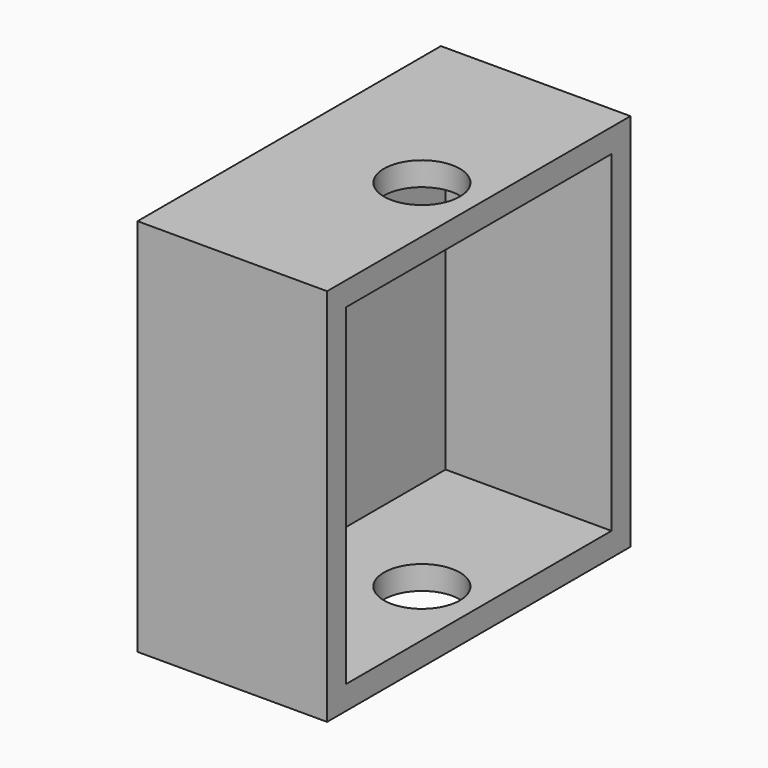
from build123d import *

# Parameters (mm, degrees)
F0_W     = 40
F0_H     = 40
F1_DEPTH = 20
F2_T     = -2.5
F3_R     = 4
F4_DEPTH = 40.001


with BuildPart() as f1:
    # F0 (on Right) → F1 (new body)
    with BuildSketch(Plane.YZ):
        with Locations((3.175765, 4.096127)):
            Rectangle(F0_W, F0_H)
    extrude(amount=F1_DEPTH)

    # F2
    f2_openings = [f1.faces().sort_by_distance(p)[0] for p in [
        (20, 3.175765, 4.096127),
    ]]
    offset(amount=F2_T, openings=f2_openings)

    # F3 (on face) → F4 (cut, through all)
    with BuildSketch(Plane(origin=(0, 0, -15.903873), x_dir=(1, 0, 0), z_dir=(0, 0, -1))):
        with Locations((14, -3.175765)):
            Circle(F3_R)
    extrude(amount=-F4_DEPTH, mode=Mode.SUBTRACT)


solid = f1.part
